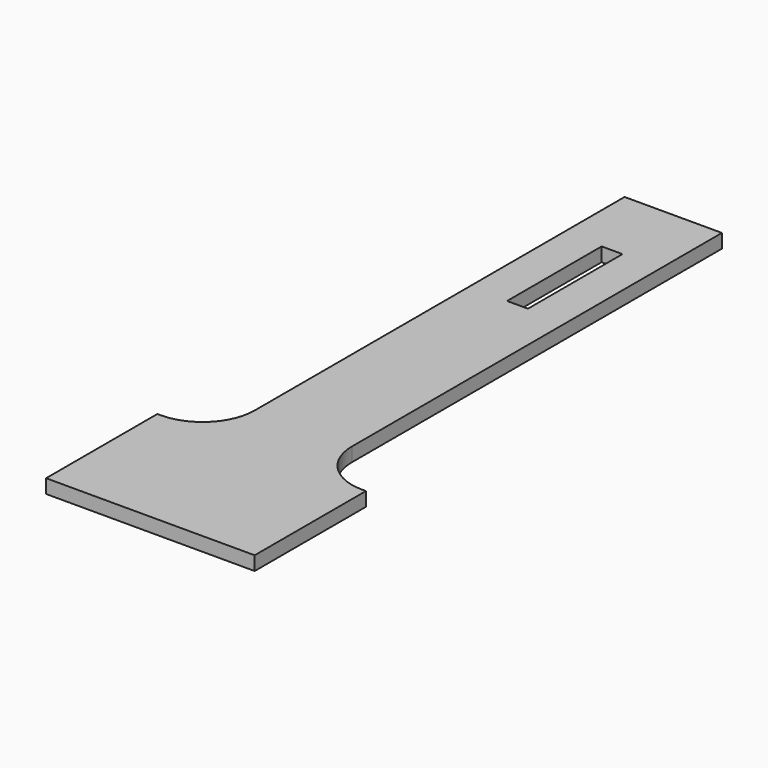
from build123d import *

# Parameters (mm, degrees)
COPYSKETCH_W = 3
COPYSKETCH_H = 17
PAD_DEPTH    = 2


with BuildPart() as part:
    # CopySketch → Pad (new body)
    with BuildSketch(Plane.XY):
        with BuildLine():
            Line((0, 0), (30, 0))
            Line((30, 0), (30, 20))
            Line((30, 20), (29.5, 20))
            ThreePointArc((22, 27.5), (24.196699, 22.196699), (29.5, 20))
            Line((22, 27.5), (22, 94))
            Line((22, 94), (8, 94))
            Line((8, 94), (8, 27.5))
            ThreePointArc((0.5, 20), (5.803301, 22.196699), (8, 27.5))
            Line((0, 20), (0.5, 20))
            Line((0, 20), (0, 0))
        make_face()
        with Locations((15, 74.5)):
            Rectangle(COPYSKETCH_W, COPYSKETCH_H, mode=Mode.SUBTRACT)
    extrude(amount=PAD_DEPTH)


solid = part.part
